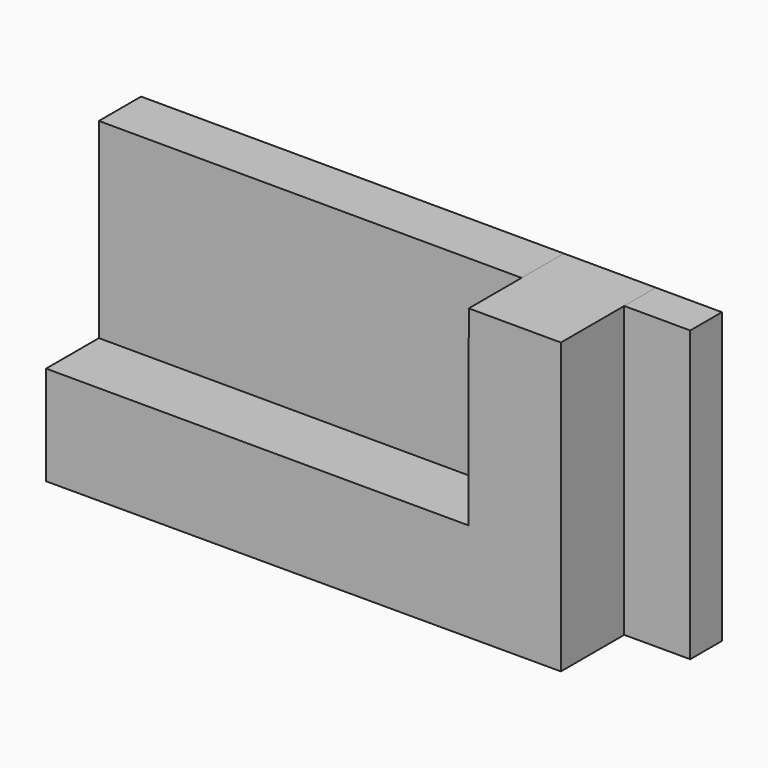
from build123d import *

# Parameters (mm, degrees)
F1_DEPTH = 28.575
F2_DEPTH = 9.525
F3_DEPTH = 12.7


with BuildPart() as f1:
    # F0 (on Front) → F1 (new body)
    with BuildSketch(Plane.XZ):
        Polygon((18.814336, 3.74213), (-82.785664, 3.908251), (-82.785664, -19.958095), (41.039336, -19.958095), (41.039336, 49.689445), (18.889521, 49.725661), align=None)
    extrude(amount=F1_DEPTH)

    # F0 (on Front) → F2 (join)
    with BuildSketch(Plane.XZ):
        Polygon((56.914336, 49.663489), (41.039336, 49.689445), (41.039336, -19.958095), (56.914336, -19.958095), align=None)
    extrude(amount=F2_DEPTH)

    # F0 (on Front) → F3 (join)
    with BuildSketch(Plane.XZ):
        Polygon((18.889521, 49.725661), (-82.785664, 49.891905), (-82.785664, 3.908251), (18.814336, 3.74213), align=None)
    extrude(amount=F3_DEPTH)


solid = f1.part
